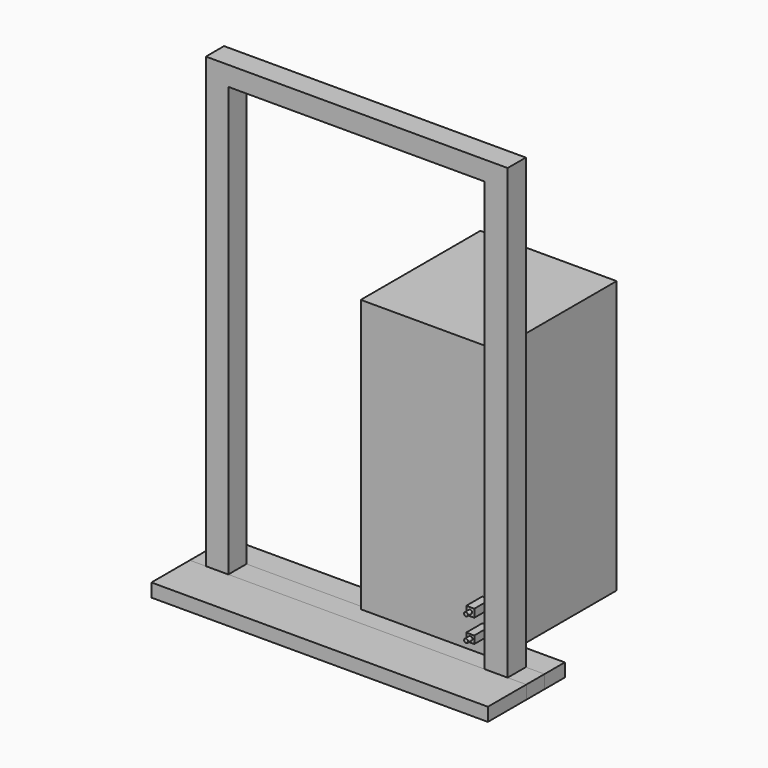
from build123d import *

# Parameters (mm, degrees)
F1_DEPTH  = 228.6
F2_DEPTH  = 107.95
F4_W      = 647.7
F4_H      = 1295.4
F5_DEPTH  = 711.2
F6_W      = 38.1
F6_H      = 38.1
F7_DEPTH  = 95.25
F8_DEPTH  = 95.25
F6_H_2    = 35.9624922276
F9_R      = 9.525
F10_DEPTH = 25.4
F11_R     = 9.0398884045
F12_DEPTH = 25.4


with BuildPart() as f1:
    # F0 (on Front) → F1 (new body, symmetric)
    with BuildSketch(Plane.XZ):
        Polygon((558.8, 0), (0, 0), (-106.68, 0), (-182.88, 0), (-182.88, -63.5), (1417.32, -63.5), (1417.32, 0), (1328.42, 0), (1219.2, 0), (1206.5, 0), align=None)
    extrude(amount=F1_DEPTH, both=True)


with BuildPart() as f2:
    # F0 (on Front) → F2 (new body)
    with BuildSketch(Plane.XZ):
        Polygon((-106.68, 0), (0, 0), (0, 2041.525), (1219.2, 2041.525), (1219.2, 0), (1328.42, 0), (1328.42, 2133.6), (-106.68, 2133.6), align=None)
        Polygon((558.8, 0), (0, 0), (-106.68, 0), (-182.88, 0), (-182.88, -63.5), (1417.32, -63.5), (1417.32, 0), (1328.42, 0), (1219.2, 0), (1206.5, 0), align=None)
    extrude(amount=-F2_DEPTH)


with BuildPart() as f5:
    # F4 (on offset) → F5 (new body)
    with BuildSketch(Plane.XZ.offset(-88.9)):
        with Locations((882.65, 647.7)):
            Rectangle(F4_W, F4_H)
    extrude(amount=-F5_DEPTH)

    # F6 (on face) → F7 (join)
    with BuildSketch(Plane.XZ.offset(-88.9)):
        with Locations((1155.7, 222.25)):
            Rectangle(F6_W, F6_H)
    extrude(amount=F7_DEPTH)


with BuildPart() as f8:
    # F6 (on face) → F8 (new body)
    with BuildSketch(Plane.XZ.offset(-88.9)):
        with Locations((1155.7, 222.25)):
            Rectangle(F6_W, F6_H)
    extrude(amount=F8_DEPTH)


with BuildPart() as f8b:
    # F6 (on face) → F8, piece 2 (new body)
    with BuildSketch(Plane.XZ.offset(-88.9)):
        with Locations((1155.7, 111.125)):
            Rectangle(F6_W, F6_H_2)
    extrude(amount=F8_DEPTH)

    # F9 (on face) → F10 (join)
    with BuildSketch(Plane.XZ.offset(6.35)):
        with Locations((1156.3872098923, 111.125)):
            Circle(F9_R)
    extrude(amount=F10_DEPTH)


with BuildPart() as f12:
    # F11 (on face) → F12 (new body)
    with BuildSketch(Plane.XZ.offset(6.35)):
        with Locations((1155.699968338, 222.25)):
            Circle(F11_R)
    extrude(amount=F12_DEPTH)


solid = Compound([f1.part, f2.part, f5.part, f8.part, f8b.part, f12.part])
